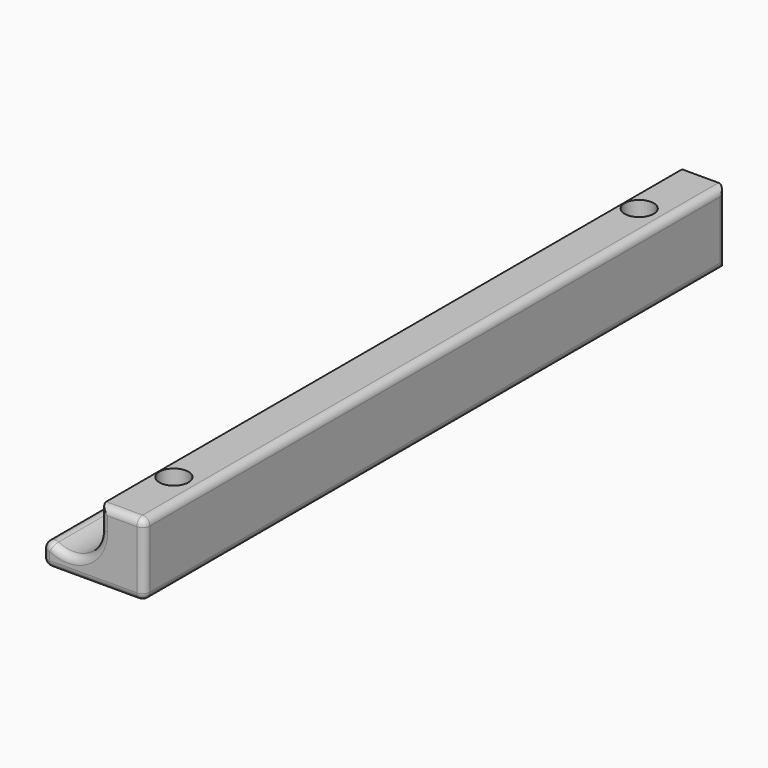
from build123d import *

# Parameters (mm, degrees)
F1_DEPTH = 50
F2_R     = 2
F3_DEPTH = 10
F4_R     = 1


with BuildPart() as f1:
    # F0 (on Front) → F1 (new body, symmetric)
    with BuildSketch(Plane.XZ):
        with BuildLine():
            ThreePointArc((4.5, 0), (1.5, -4.242641), (-3.5, -2.828427))
            Line((-3.5, -2.828427), (-3.5, -7))
            Line((-3.5, -7), (10.5, -7))
            Line((10.5, -7), (10.5, 3))
            Line((10.5, 3), (4.5, 3))
            Line((4.5, 3), (4.5, 0))
        make_face()
    extrude(amount=F1_DEPTH, both=True)

    # F2 (on face) → F3 (cut, through all)
    with BuildSketch(Plane.XY.offset(3)):
        with Locations((6.6, -40)):
            Circle(F2_R)
        with Locations((6.6, 40)):
            Circle(F2_R)
    extrude(amount=-F3_DEPTH, mode=Mode.SUBTRACT)

    # F4
    f4_edges = [f1.edges().sort_by_distance(p)[0] for p in [
        (10.5, 0, -7),
        (10.5, 50, -2),
        (10.5, 0, 3),
        (10.5, -50, -2),
        (1.5, -50, -4.242641),
        (-3.5, -50, -4.914214),
        (3.5, -50, -7),
        (7.5, -50, 3),
        (4.5, -50, 1.5),
        (-3.5, 0, -2.828427),
        (-3.5, 0, -7),
    ]]
    fillet(f4_edges, radius=F4_R)


solid = f1.part
